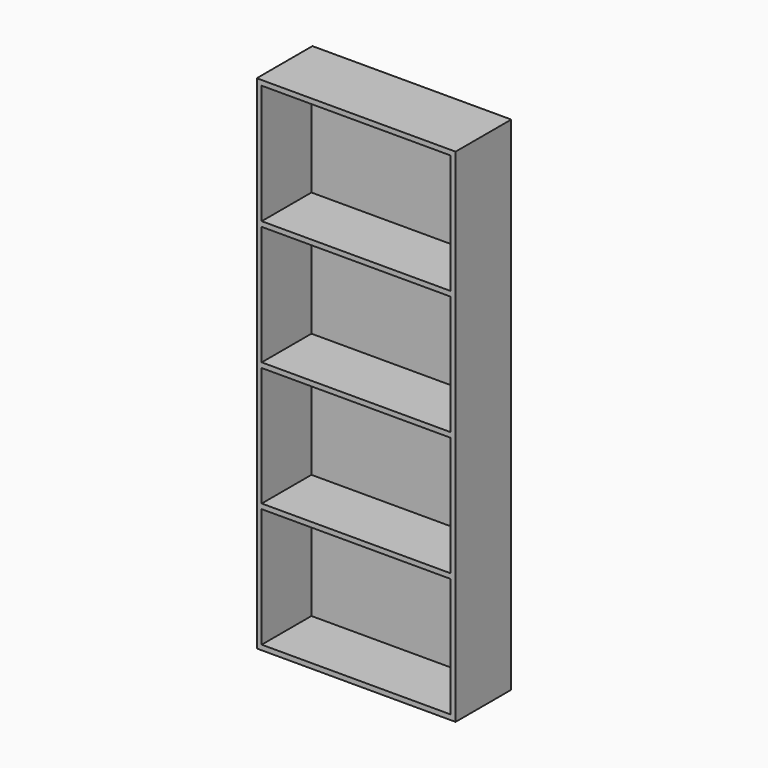
from build123d import *

# Parameters (mm, degrees)
F0_W     = 80
F0_H     = 202
F1_DEPTH = 25
F2_W     = 80
F2_H     = 202
F3_DEPTH = 3


with BuildPart() as f1:
    # F0 (on Front) → F1 (new body)
    with BuildSketch(Plane.XZ):
        with Locations((-13.415066, -21.53169)):
            Rectangle(F0_W, F0_H)
        Polygon((-51.415066, -70.53169), (-51.415066, -22.53169), (24.584934, -22.53169), (24.584934, -70.53169), (-43.278448, -70.53169), align=None, mode=Mode.SUBTRACT)
        Polygon((24.584934, -120.53169), (-51.415066, -120.53169), (-51.415066, -72.53169), (-43.278448, -72.53169), (24.584934, -72.53169), align=None, mode=Mode.SUBTRACT)
        Polygon((24.584934, -20.53169), (-51.415066, -20.53169), (-51.415066, 27.46831), (-36.231928, 27.46831), (24.584934, 27.46831), align=None, mode=Mode.SUBTRACT)
        Polygon((-51.415066, 29.46831), (-51.415066, 77.46831), (24.584934, 77.46831), (24.584934, 29.46831), (-36.231928, 29.46831), align=None, mode=Mode.SUBTRACT)
    extrude(amount=F1_DEPTH)

    # F2 (on face) → F3 (join)
    with BuildSketch(Plane(origin=(0, 0, 0), x_dir=(-1, 0, 0), z_dir=(0, 1, 0))):
        with Locations((13.415066, -21.53169)):
            Rectangle(F2_W, F2_H)
    extrude(amount=F3_DEPTH)


solid = f1.part
